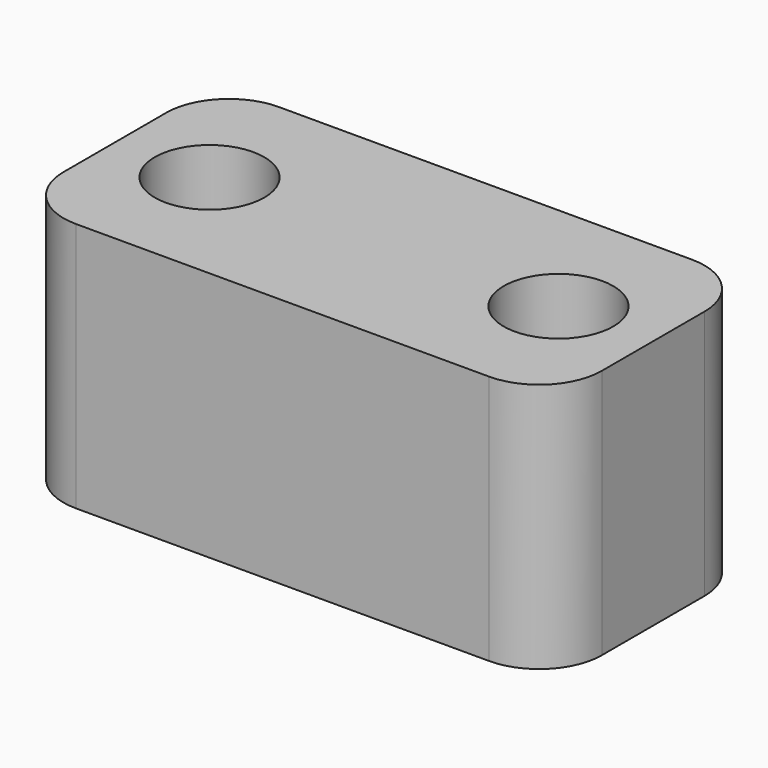
from build123d import *

# Parameters (mm, degrees)
F0_W     = 17.2
F0_H     = 8
F1_DEPTH = 8.1
F2_R     = 1.75
F3_DEPTH = 8.001
F4_R     = 2


with BuildPart() as f1:
    # F0 (on Front) → F1 (new body)
    with BuildSketch(Plane.XZ):
        with Locations((0, 4)):
            Rectangle(F0_W, F0_H)
    extrude(amount=F1_DEPTH)

    # F2 (on face) → F3 (cut, through all)
    with BuildSketch(Plane.XY.offset(8)):
        with Locations((-5.575, -4.05)):
            Circle(F2_R)
        with Locations((5.575, -4.05)):
            Circle(F2_R)
    extrude(amount=-F3_DEPTH, mode=Mode.SUBTRACT)

    # F4
    f4_edges = [f1.edges().sort_by_distance(p)[0] for p in [
        (-8.6, -8.1, 4),
        (8.6, -8.1, 4),
        (8.6, 0, 4),
        (-8.6, 0, 4),
    ]]
    fillet(f4_edges, radius=F4_R)


solid = f1.part
